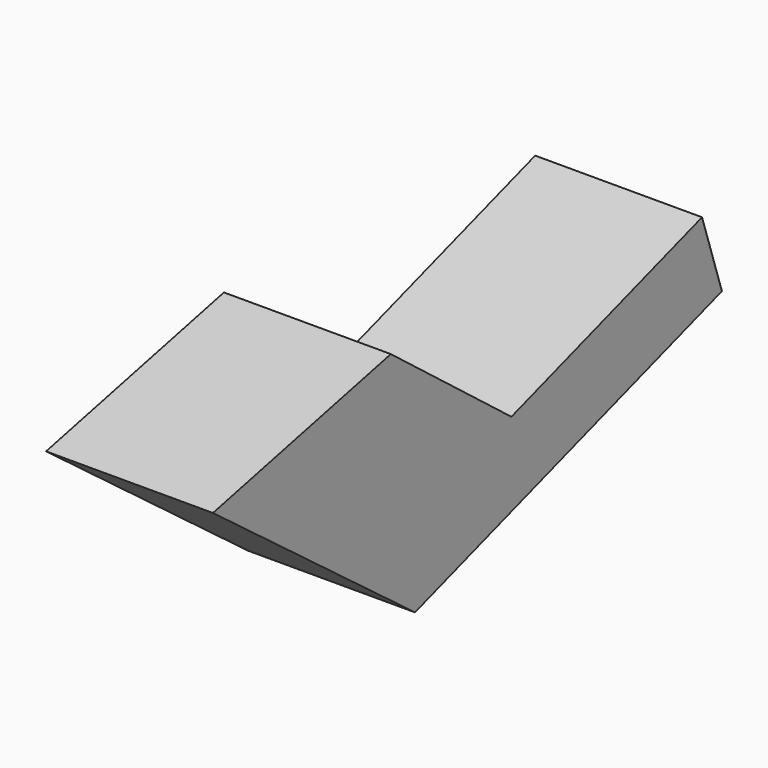
from build123d import *

# Parameters (mm, degrees)
F1_DEPTH = 117.0090213418
F2_DEPTH = 175.9890317917


with BuildPart() as f1:
    # F0 (on Right) → F1 (new body)
    with BuildSketch(Plane.YZ):
        Polygon((106.6427230835, 67.474976182), (-49.2613241076, 32.7566601336), (127.8853920655, -100.6383021676), (229.7993600368, -66.9441521168), (212.3612165451, -14.1993761063), align=None)
    extrude(amount=-F1_DEPTH)

    # F2 (add): a face of the model
    f2_faces = [f1.faces().sort_by_distance(p)[0] for p in [
        (-58.5045106709, 221.080288291, -40.5717641115),
    ]]
    extrude(f2_faces, amount=F2_DEPTH)


solid = f1.part
